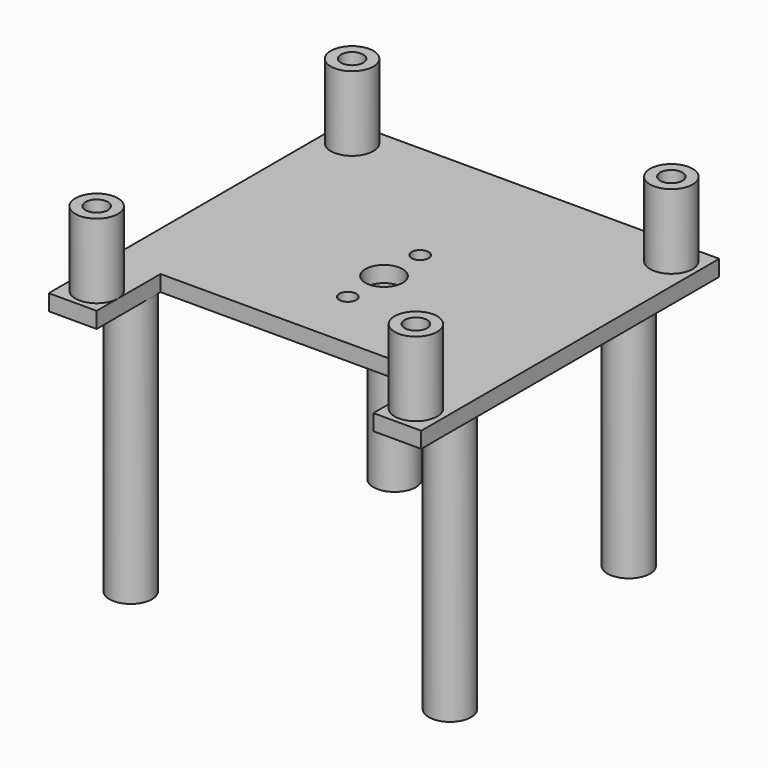
from build123d import *

# Parameters (mm, degrees)
SKETCH002_R   = 3.5
SKETCH002_R_2 = 1.6
SKETCH002_R_3 = 2.1
PAD_DEPTH     = 3
SKETCH003_R   = 4
SKETCH003_R_2 = 2.1
PAD001_DEPTH  = 15
SKETCH004_R   = 4
SKETCH004_R_2 = 2.1
PAD002_DEPTH  = 50


with BuildPart() as pad:
    # Sketch002 → Pad (new body)
    with BuildSketch(Plane.XY):
        Polygon((-35, 35), (35, 35), (35, -35), (26, -35), (26, -20), (-26, -20), (-26, -35), (-35, -35), align=None)
        Circle(SKETCH002_R, mode=Mode.SUBTRACT)
        with Locations((0, 8.5)):
            Circle(SKETCH002_R_2, mode=Mode.SUBTRACT)
        with Locations((0, -8.5)):
            Circle(SKETCH002_R_2, mode=Mode.SUBTRACT)
        with Locations((30, 30)):
            Circle(SKETCH002_R_3, mode=Mode.SUBTRACT)
        with Locations((-30, 30)):
            Circle(SKETCH002_R_3, mode=Mode.SUBTRACT)
        with Locations((-30, -30)):
            Circle(SKETCH002_R_3, mode=Mode.SUBTRACT)
        with Locations((30, -30)):
            Circle(SKETCH002_R_3, mode=Mode.SUBTRACT)
    extrude(amount=PAD_DEPTH)


with BuildPart() as pad001:
    # Sketch003 → Pad001 (new body)
    with BuildSketch(Plane.XY.offset(2)):
        with Locations((-30, 30)):
            Circle(SKETCH003_R)
        with Locations((-30, 30)):
            Circle(SKETCH003_R_2, mode=Mode.SUBTRACT)
        with Locations((30, 30)):
            Circle(SKETCH003_R)
        with Locations((30, 30)):
            Circle(SKETCH003_R_2, mode=Mode.SUBTRACT)
        with Locations((30, -30)):
            Circle(SKETCH003_R)
        with Locations((30, -30)):
            Circle(SKETCH003_R_2, mode=Mode.SUBTRACT)
        with Locations((-30, -30)):
            Circle(SKETCH003_R)
        with Locations((-30, -30)):
            Circle(SKETCH003_R_2, mode=Mode.SUBTRACT)
    extrude(amount=PAD001_DEPTH)


with BuildPart() as pad002:
    # Sketch004 → Pad002 (new body)
    with BuildSketch(Plane.XY.offset(-50)):
        with Locations((-22, 30)):
            Circle(SKETCH004_R)
        with Locations((-22, 30)):
            Circle(SKETCH004_R_2, mode=Mode.SUBTRACT)
        with Locations((22, 30)):
            Circle(SKETCH004_R)
        with Locations((22, 30)):
            Circle(SKETCH004_R_2, mode=Mode.SUBTRACT)
        with Locations((30, -22)):
            Circle(SKETCH004_R)
        with Locations((30, -22)):
            Circle(SKETCH004_R_2, mode=Mode.SUBTRACT)
        with Locations((-30, -22)):
            Circle(SKETCH004_R)
        with Locations((-30, -22)):
            Circle(SKETCH004_R_2, mode=Mode.SUBTRACT)
    extrude(amount=PAD002_DEPTH)


solid = Compound([pad.part, pad001.part, pad002.part])
